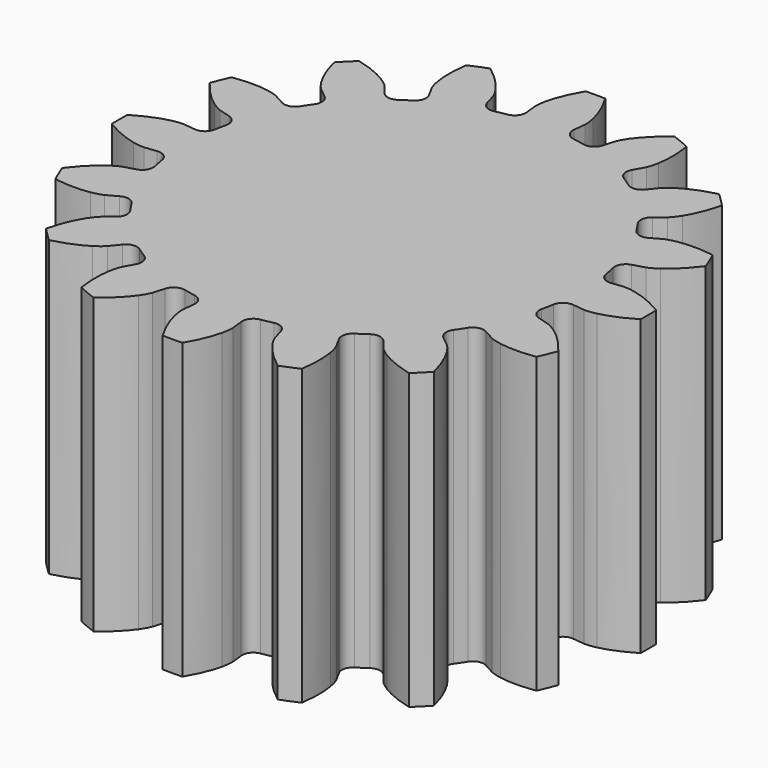
from build123d import *

# Parameters (mm, degrees)
PAD_DEPTH = 15


with BuildPart() as part:
    # InvoluteGear → Pad (new body)
    with BuildSketch(Plane.XY):
        with BuildLine():
            Line((10.626695, -1.206806), (11.229569, -1.274112))
            add(Edge.make_bspline(
                [(11.229569, -1.274112), (11.295854, -1.277192), (11.495172, -1.277709), (11.828545, -1.203766)],
                knots=[0, 0, 0, 0, 1, 1, 1, 1], degree=3))
            add(Edge.make_bspline(
                [(11.828545, -1.203766), (12.226607, -1.113799), (12.797122, -0.918468), (13.492577, -0.498449)],
                knots=[0, 0, 0, 0, 1, 1, 1, 1], degree=3))
            ThreePointArc((13.492577, -0.498449), (13.500891, 0.000373), (13.490769, 0.499162))
            add(Edge.make_bspline(
                [(13.490769, 0.499162), (12.797122, 0.918468), (12.226607, 1.113799), (11.828545, 1.203766)],
                knots=[0, 0, 0, 0, 1, 1, 1, 1], degree=3))
            add(Edge.make_bspline(
                [(11.828545, 1.203766), (11.495172, 1.277709), (11.295854, 1.277192), (11.229569, 1.274112)],
                knots=[0, 0, 0, 0, 1, 1, 1, 1], degree=3))
            Line((11.229569, 1.274112), (10.626695, 1.206806))
            ThreePointArc((10.626695, 1.206806), (10.210649, 1.311293), (9.985274, 1.676284))
            ThreePointArc((9.985274, 1.676284), (9.930451, 1.97529), (9.866676, 2.272515))
            ThreePointArc((9.866676, 2.272515), (9.935219, 2.695969), (10.279611, 2.951717))
            Line((10.279611, 2.951717), (10.86235, 3.120244))
            add(Edge.make_bspline(
                [(10.86235, 3.120244), (10.924769, 3.142764), (11.109112, 3.218563), (11.388812, 3.414453)],
                knots=[0, 0, 0, 0, 1, 1, 1, 1], degree=3))
            add(Edge.make_bspline(
                [(11.388812, 3.414453), (11.722144, 3.649904), (12.174482, 4.048693), (12.656264, 4.702878)],
                knots=[0, 0, 0, 0, 1, 1, 1, 1], degree=3))
            ThreePointArc((12.656264, 4.702878), (12.473054, 5.166912), (12.272824, 5.623859))
            add(Edge.make_bspline(
                [(12.272824, 5.623859), (11.471517, 5.7458), (10.86968, 5.707936), (10.467489, 5.638723)],
                knots=[0, 0, 0, 0, 1, 1, 1, 1], degree=3))
            add(Edge.make_bspline(
                [(10.467489, 5.638723), (10.131196, 5.579461), (9.947248, 5.502708), (9.887187, 5.474496)],
                knots=[0, 0, 0, 0, 1, 1, 1, 1], degree=3))
            Line((9.887187, 5.474496), (9.355961, 5.181603))
            ThreePointArc((9.355961, 5.181603), (8.931599, 5.118923), (8.583704, 5.369883))
            ThreePointArc((8.583704, 5.369883), (8.41863, 5.625149), (8.245967, 5.875343))
            ThreePointArc((8.245967, 5.875343), (8.147243, 6.292795), (8.367549, 6.660867))
            Line((8.367549, 6.660867), (8.841437, 7.039571))
            add(Edge.make_bspline(
                [(8.841437, 7.039571), (8.890486, 7.084264), (9.031791, 7.224838), (9.215235, 7.512853)],
                knots=[0, 0, 0, 0, 1, 1, 1, 1], degree=3))
            add(Edge.make_bspline(
                [(9.215235, 7.512853), (9.433091, 7.857942), (9.698387, 8.399477), (9.893149, 9.188235)],
                knots=[0, 0, 0, 0, 1, 1, 1, 1], degree=3))
            ThreePointArc((9.893149, 9.188235), (9.546308, 9.546835), (9.186453, 9.892375))
            add(Edge.make_bspline(
                [(9.186453, 9.892375), (8.399477, 9.698387), (7.857942, 9.433091), (7.512853, 9.215235)],
                knots=[0, 0, 0, 0, 1, 1, 1, 1], degree=3))
            add(Edge.make_bspline(
                [(7.512853, 9.215235), (7.224838, 9.031791), (7.084264, 8.890486), (7.039571, 8.841437)],
                knots=[0, 0, 0, 0, 1, 1, 1, 1], degree=3))
            Line((7.039571, 8.841437), (6.660867, 8.367549))
            ThreePointArc((6.660867, 8.367549), (6.292795, 8.147243), (5.875343, 8.245967))
            ThreePointArc((5.875343, 8.245967), (5.625149, 8.41863), (5.369883, 8.583704))
            ThreePointArc((5.369883, 8.583704), (5.118923, 8.931599), (5.181603, 9.355961))
            Line((5.181603, 9.355961), (5.474496, 9.887187))
            add(Edge.make_bspline(
                [(5.474496, 9.887187), (5.502708, 9.947248), (5.579461, 10.131196), (5.638723, 10.467489)],
                knots=[0, 0, 0, 0, 1, 1, 1, 1], degree=3))
            add(Edge.make_bspline(
                [(5.638723, 10.467489), (5.707936, 10.86968), (5.7458, 11.471517), (5.623893, 12.274767)],
                knots=[0, 0, 0, 0, 1, 1, 1, 1], degree=3))
            ThreePointArc((5.623893, 12.274767), (5.166223, 12.473339), (4.701528, 12.654866))
            add(Edge.make_bspline(
                [(4.701528, 12.654866), (4.048693, 12.174482), (3.649904, 11.722144), (3.414453, 11.388812)],
                knots=[0, 0, 0, 0, 1, 1, 1, 1], degree=3))
            add(Edge.make_bspline(
                [(3.414453, 11.388812), (3.218563, 11.109112), (3.142764, 10.924769), (3.120244, 10.86235)],
                knots=[0, 0, 0, 0, 1, 1, 1, 1], degree=3))
            Line((3.120244, 10.86235), (2.951717, 10.279611))
            ThreePointArc((2.951717, 10.279611), (2.695969, 9.935219), (2.272515, 9.866676))
            ThreePointArc((2.272515, 9.866676), (1.97529, 9.930451), (1.676284, 9.985274))
            ThreePointArc((1.676284, 9.985274), (1.311293, 10.210649), (1.206806, 10.626695))
            Line((1.206806, 10.626695), (1.274112, 11.229569))
            add(Edge.make_bspline(
                [(1.274112, 11.229569), (1.277192, 11.295854), (1.277709, 11.495172), (1.203766, 11.828545)],
                knots=[0, 0, 0, 0, 1, 1, 1, 1], degree=3))
            add(Edge.make_bspline(
                [(1.203766, 11.828545), (1.113799, 12.226607), (0.918468, 12.797122), (0.498449, 13.492577)],
                knots=[0, 0, 0, 0, 1, 1, 1, 1], degree=3))
            ThreePointArc((0.498449, 13.492577), (-0.000373, 13.500891), (-0.499162, 13.490769))
            add(Edge.make_bspline(
                [(-0.499162, 13.490769), (-0.918468, 12.797122), (-1.113799, 12.226607), (-1.203766, 11.828545)],
                knots=[0, 0, 0, 0, 1, 1, 1, 1], degree=3))
            add(Edge.make_bspline(
                [(-1.203766, 11.828545), (-1.277709, 11.495172), (-1.277192, 11.295854), (-1.274112, 11.229569)],
                knots=[0, 0, 0, 0, 1, 1, 1, 1], degree=3))
            Line((-1.274112, 11.229569), (-1.206806, 10.626695))
            ThreePointArc((-1.206806, 10.626695), (-1.311293, 10.210649), (-1.676284, 9.985274))
            ThreePointArc((-1.676284, 9.985274), (-1.97529, 9.930451), (-2.272515, 9.866676))
            ThreePointArc((-2.272515, 9.866676), (-2.695969, 9.935219), (-2.951717, 10.279611))
            Line((-2.951717, 10.279611), (-3.120244, 10.86235))
            add(Edge.make_bspline(
                [(-3.120244, 10.86235), (-3.142764, 10.924769), (-3.218563, 11.109112), (-3.414453, 11.388812)],
                knots=[0, 0, 0, 0, 1, 1, 1, 1], degree=3))
            add(Edge.make_bspline(
                [(-3.414453, 11.388812), (-3.649904, 11.722144), (-4.048693, 12.174482), (-4.702878, 12.656264)],
                knots=[0, 0, 0, 0, 1, 1, 1, 1], degree=3))
            ThreePointArc((-4.702878, 12.656264), (-5.166912, 12.473054), (-5.623859, 12.272824))
            add(Edge.make_bspline(
                [(-5.623859, 12.272824), (-5.7458, 11.471517), (-5.707936, 10.86968), (-5.638723, 10.467489)],
                knots=[0, 0, 0, 0, 1, 1, 1, 1], degree=3))
            add(Edge.make_bspline(
                [(-5.638723, 10.467489), (-5.579461, 10.131196), (-5.502708, 9.947248), (-5.474496, 9.887187)],
                knots=[0, 0, 0, 0, 1, 1, 1, 1], degree=3))
            Line((-5.474496, 9.887187), (-5.181603, 9.355961))
            ThreePointArc((-5.181603, 9.355961), (-5.118923, 8.931599), (-5.369883, 8.583704))
            ThreePointArc((-5.369883, 8.583704), (-5.625149, 8.41863), (-5.875343, 8.245967))
            ThreePointArc((-5.875343, 8.245967), (-6.292795, 8.147243), (-6.660867, 8.367549))
            Line((-6.660867, 8.367549), (-7.039571, 8.841437))
            add(Edge.make_bspline(
                [(-7.039571, 8.841437), (-7.084264, 8.890486), (-7.224838, 9.031791), (-7.512853, 9.215235)],
                knots=[0, 0, 0, 0, 1, 1, 1, 1], degree=3))
            add(Edge.make_bspline(
                [(-7.512853, 9.215235), (-7.857942, 9.433091), (-8.399477, 9.698387), (-9.188235, 9.893149)],
                knots=[0, 0, 0, 0, 1, 1, 1, 1], degree=3))
            ThreePointArc((-9.188235, 9.893149), (-9.546835, 9.546308), (-9.892375, 9.186453))
            add(Edge.make_bspline(
                [(-9.892375, 9.186453), (-9.698387, 8.399477), (-9.433091, 7.857942), (-9.215235, 7.512853)],
                knots=[0, 0, 0, 0, 1, 1, 1, 1], degree=3))
            add(Edge.make_bspline(
                [(-9.215235, 7.512853), (-9.031791, 7.224838), (-8.890486, 7.084264), (-8.841437, 7.039571)],
                knots=[0, 0, 0, 0, 1, 1, 1, 1], degree=3))
            Line((-8.841437, 7.039571), (-8.367549, 6.660867))
            ThreePointArc((-8.367549, 6.660867), (-8.147243, 6.292795), (-8.245967, 5.875343))
            ThreePointArc((-8.245967, 5.875343), (-8.41863, 5.625149), (-8.583704, 5.369883))
            ThreePointArc((-8.583704, 5.369883), (-8.931599, 5.118923), (-9.355961, 5.181603))
            Line((-9.355961, 5.181603), (-9.887187, 5.474496))
            add(Edge.make_bspline(
                [(-9.887187, 5.474496), (-9.947248, 5.502708), (-10.131196, 5.579461), (-10.467489, 5.638723)],
                knots=[0, 0, 0, 0, 1, 1, 1, 1], degree=3))
            add(Edge.make_bspline(
                [(-10.467489, 5.638723), (-10.86968, 5.707936), (-11.471517, 5.7458), (-12.274767, 5.623893)],
                knots=[0, 0, 0, 0, 1, 1, 1, 1], degree=3))
            ThreePointArc((-12.274767, 5.623893), (-12.473339, 5.166223), (-12.654866, 4.701528))
            add(Edge.make_bspline(
                [(-12.654866, 4.701528), (-12.174482, 4.048693), (-11.722144, 3.649904), (-11.388812, 3.414453)],
                knots=[0, 0, 0, 0, 1, 1, 1, 1], degree=3))
            add(Edge.make_bspline(
                [(-11.388812, 3.414453), (-11.109112, 3.218563), (-10.924769, 3.142764), (-10.86235, 3.120244)],
                knots=[0, 0, 0, 0, 1, 1, 1, 1], degree=3))
            Line((-10.86235, 3.120244), (-10.279611, 2.951717))
            ThreePointArc((-10.279611, 2.951717), (-9.935219, 2.695969), (-9.866676, 2.272515))
            ThreePointArc((-9.866676, 2.272515), (-9.930451, 1.97529), (-9.985274, 1.676284))
            ThreePointArc((-9.985274, 1.676284), (-10.210649, 1.311293), (-10.626695, 1.206806))
            Line((-10.626695, 1.206806), (-11.229569, 1.274112))
            add(Edge.make_bspline(
                [(-11.229569, 1.274112), (-11.295854, 1.277192), (-11.495172, 1.277709), (-11.828545, 1.203766)],
                knots=[0, 0, 0, 0, 1, 1, 1, 1], degree=3))
            add(Edge.make_bspline(
                [(-11.828545, 1.203766), (-12.226607, 1.113799), (-12.797122, 0.918468), (-13.492577, 0.498449)],
                knots=[0, 0, 0, 0, 1, 1, 1, 1], degree=3))
            ThreePointArc((-13.492577, 0.498449), (-13.500891, -0.000373), (-13.490769, -0.499162))
            add(Edge.make_bspline(
                [(-13.490769, -0.499162), (-12.797122, -0.918468), (-12.226607, -1.113799), (-11.828545, -1.203766)],
                knots=[0, 0, 0, 0, 1, 1, 1, 1], degree=3))
            add(Edge.make_bspline(
                [(-11.828545, -1.203766), (-11.495172, -1.277709), (-11.295854, -1.277192), (-11.229569, -1.274112)],
                knots=[0, 0, 0, 0, 1, 1, 1, 1], degree=3))
            Line((-11.229569, -1.274112), (-10.626695, -1.206806))
            ThreePointArc((-10.626695, -1.206806), (-10.210649, -1.311293), (-9.985274, -1.676284))
            ThreePointArc((-9.985274, -1.676284), (-9.930451, -1.97529), (-9.866676, -2.272515))
            ThreePointArc((-9.866676, -2.272515), (-9.935219, -2.695969), (-10.279611, -2.951717))
            Line((-10.279611, -2.951717), (-10.86235, -3.120244))
            add(Edge.make_bspline(
                [(-10.86235, -3.120244), (-10.924769, -3.142764), (-11.109112, -3.218563), (-11.388812, -3.414453)],
                knots=[0, 0, 0, 0, 1, 1, 1, 1], degree=3))
            add(Edge.make_bspline(
                [(-11.388812, -3.414453), (-11.722144, -3.649904), (-12.174482, -4.048693), (-12.656264, -4.702878)],
                knots=[0, 0, 0, 0, 1, 1, 1, 1], degree=3))
            ThreePointArc((-12.656264, -4.702878), (-12.473054, -5.166912), (-12.272824, -5.623859))
            add(Edge.make_bspline(
                [(-12.272824, -5.623859), (-11.471517, -5.7458), (-10.86968, -5.707936), (-10.467489, -5.638723)],
                knots=[0, 0, 0, 0, 1, 1, 1, 1], degree=3))
            add(Edge.make_bspline(
                [(-10.467489, -5.638723), (-10.131196, -5.579461), (-9.947248, -5.502708), (-9.887187, -5.474496)],
                knots=[0, 0, 0, 0, 1, 1, 1, 1], degree=3))
            Line((-9.887187, -5.474496), (-9.355961, -5.181603))
            ThreePointArc((-9.355961, -5.181603), (-8.931599, -5.118923), (-8.583704, -5.369883))
            ThreePointArc((-8.583704, -5.369883), (-8.41863, -5.625149), (-8.245967, -5.875343))
            ThreePointArc((-8.245967, -5.875343), (-8.147243, -6.292795), (-8.367549, -6.660867))
            Line((-8.367549, -6.660867), (-8.841437, -7.039571))
            add(Edge.make_bspline(
                [(-8.841437, -7.039571), (-8.890486, -7.084264), (-9.031791, -7.224838), (-9.215235, -7.512853)],
                knots=[0, 0, 0, 0, 1, 1, 1, 1], degree=3))
            add(Edge.make_bspline(
                [(-9.215235, -7.512853), (-9.433091, -7.857942), (-9.698387, -8.399477), (-9.893149, -9.188235)],
                knots=[0, 0, 0, 0, 1, 1, 1, 1], degree=3))
            ThreePointArc((-9.893149, -9.188235), (-9.546308, -9.546835), (-9.186453, -9.892375))
            add(Edge.make_bspline(
                [(-9.186453, -9.892375), (-8.399477, -9.698387), (-7.857942, -9.433091), (-7.512853, -9.215235)],
                knots=[0, 0, 0, 0, 1, 1, 1, 1], degree=3))
            add(Edge.make_bspline(
                [(-7.512853, -9.215235), (-7.224838, -9.031791), (-7.084264, -8.890486), (-7.039571, -8.841437)],
                knots=[0, 0, 0, 0, 1, 1, 1, 1], degree=3))
            Line((-7.039571, -8.841437), (-6.660867, -8.367549))
            ThreePointArc((-6.660867, -8.367549), (-6.292795, -8.147243), (-5.875343, -8.245967))
            ThreePointArc((-5.875343, -8.245967), (-5.625149, -8.41863), (-5.369883, -8.583704))
            ThreePointArc((-5.369883, -8.583704), (-5.118923, -8.931599), (-5.181603, -9.355961))
            Line((-5.181603, -9.355961), (-5.474496, -9.887187))
            add(Edge.make_bspline(
                [(-5.474496, -9.887187), (-5.502708, -9.947248), (-5.579461, -10.131196), (-5.638723, -10.467489)],
                knots=[0, 0, 0, 0, 1, 1, 1, 1], degree=3))
            add(Edge.make_bspline(
                [(-5.638723, -10.467489), (-5.707936, -10.86968), (-5.7458, -11.471517), (-5.623893, -12.274767)],
                knots=[0, 0, 0, 0, 1, 1, 1, 1], degree=3))
            ThreePointArc((-5.623893, -12.274767), (-5.166223, -12.473339), (-4.701528, -12.654866))
            add(Edge.make_bspline(
                [(-4.701528, -12.654866), (-4.048693, -12.174482), (-3.649904, -11.722144), (-3.414453, -11.388812)],
                knots=[0, 0, 0, 0, 1, 1, 1, 1], degree=3))
            add(Edge.make_bspline(
                [(-3.414453, -11.388812), (-3.218563, -11.109112), (-3.142764, -10.924769), (-3.120244, -10.86235)],
                knots=[0, 0, 0, 0, 1, 1, 1, 1], degree=3))
            Line((-3.120244, -10.86235), (-2.951717, -10.279611))
            ThreePointArc((-2.951717, -10.279611), (-2.695969, -9.935219), (-2.272515, -9.866676))
            ThreePointArc((-2.272515, -9.866676), (-1.97529, -9.930451), (-1.676284, -9.985274))
            ThreePointArc((-1.676284, -9.985274), (-1.311293, -10.210649), (-1.206806, -10.626695))
            Line((-1.206806, -10.626695), (-1.274112, -11.229569))
            add(Edge.make_bspline(
                [(-1.274112, -11.229569), (-1.277192, -11.295854), (-1.277709, -11.495172), (-1.203766, -11.828545)],
                knots=[0, 0, 0, 0, 1, 1, 1, 1], degree=3))
            add(Edge.make_bspline(
                [(-1.203766, -11.828545), (-1.113799, -12.226607), (-0.918468, -12.797122), (-0.498449, -13.492577)],
                knots=[0, 0, 0, 0, 1, 1, 1, 1], degree=3))
            ThreePointArc((-0.498449, -13.492577), (0.000373, -13.500891), (0.499162, -13.490769))
            add(Edge.make_bspline(
                [(0.499162, -13.490769), (0.918468, -12.797122), (1.113799, -12.226607), (1.203766, -11.828545)],
                knots=[0, 0, 0, 0, 1, 1, 1, 1], degree=3))
            add(Edge.make_bspline(
                [(1.203766, -11.828545), (1.277709, -11.495172), (1.277192, -11.295854), (1.274112, -11.229569)],
                knots=[0, 0, 0, 0, 1, 1, 1, 1], degree=3))
            Line((1.274112, -11.229569), (1.206806, -10.626695))
            ThreePointArc((1.206806, -10.626695), (1.311293, -10.210649), (1.676284, -9.985274))
            ThreePointArc((1.676284, -9.985274), (1.97529, -9.930451), (2.272515, -9.866676))
            ThreePointArc((2.272515, -9.866676), (2.695969, -9.935219), (2.951717, -10.279611))
            Line((2.951717, -10.279611), (3.120244, -10.86235))
            add(Edge.make_bspline(
                [(3.120244, -10.86235), (3.142764, -10.924769), (3.218563, -11.109112), (3.414453, -11.388812)],
                knots=[0, 0, 0, 0, 1, 1, 1, 1], degree=3))
            add(Edge.make_bspline(
                [(3.414453, -11.388812), (3.649904, -11.722144), (4.048693, -12.174482), (4.702878, -12.656264)],
                knots=[0, 0, 0, 0, 1, 1, 1, 1], degree=3))
            ThreePointArc((4.702878, -12.656264), (5.166912, -12.473054), (5.623859, -12.272824))
            add(Edge.make_bspline(
                [(5.623859, -12.272824), (5.7458, -11.471517), (5.707936, -10.86968), (5.638723, -10.467489)],
                knots=[0, 0, 0, 0, 1, 1, 1, 1], degree=3))
            add(Edge.make_bspline(
                [(5.638723, -10.467489), (5.579461, -10.131196), (5.502708, -9.947248), (5.474496, -9.887187)],
                knots=[0, 0, 0, 0, 1, 1, 1, 1], degree=3))
            Line((5.474496, -9.887187), (5.181603, -9.355961))
            ThreePointArc((5.181603, -9.355961), (5.118923, -8.931599), (5.369883, -8.583704))
            ThreePointArc((5.369883, -8.583704), (5.625149, -8.41863), (5.875343, -8.245967))
            ThreePointArc((5.875343, -8.245967), (6.292795, -8.147243), (6.660867, -8.367549))
            Line((6.660867, -8.367549), (7.039571, -8.841437))
            add(Edge.make_bspline(
                [(7.039571, -8.841437), (7.084264, -8.890486), (7.224838, -9.031791), (7.512853, -9.215235)],
                knots=[0, 0, 0, 0, 1, 1, 1, 1], degree=3))
            add(Edge.make_bspline(
                [(7.512853, -9.215235), (7.857942, -9.433091), (8.399477, -9.698387), (9.188235, -9.893149)],
                knots=[0, 0, 0, 0, 1, 1, 1, 1], degree=3))
            ThreePointArc((9.188235, -9.893149), (9.546835, -9.546308), (9.892375, -9.186453))
            add(Edge.make_bspline(
                [(9.892375, -9.186453), (9.698387, -8.399477), (9.433091, -7.857942), (9.215235, -7.512853)],
                knots=[0, 0, 0, 0, 1, 1, 1, 1], degree=3))
            add(Edge.make_bspline(
                [(9.215235, -7.512853), (9.031791, -7.224838), (8.890486, -7.084264), (8.841437, -7.039571)],
                knots=[0, 0, 0, 0, 1, 1, 1, 1], degree=3))
            Line((8.841437, -7.039571), (8.367549, -6.660867))
            ThreePointArc((8.367549, -6.660867), (8.147243, -6.292795), (8.245967, -5.875343))
            ThreePointArc((8.245967, -5.875343), (8.41863, -5.625149), (8.583704, -5.369883))
            ThreePointArc((8.583704, -5.369883), (8.931599, -5.118923), (9.355961, -5.181603))
            Line((9.355961, -5.181603), (9.887187, -5.474496))
            add(Edge.make_bspline(
                [(9.887187, -5.474496), (9.947248, -5.502708), (10.131196, -5.579461), (10.467489, -5.638723)],
                knots=[0, 0, 0, 0, 1, 1, 1, 1], degree=3))
            add(Edge.make_bspline(
                [(10.467489, -5.638723), (10.86968, -5.707936), (11.471517, -5.7458), (12.274767, -5.623893)],
                knots=[0, 0, 0, 0, 1, 1, 1, 1], degree=3))
            ThreePointArc((12.274767, -5.623893), (12.473339, -5.166223), (12.654866, -4.701528))
            add(Edge.make_bspline(
                [(12.654866, -4.701528), (12.174482, -4.048693), (11.722144, -3.649904), (11.388812, -3.414453)],
                knots=[0, 0, 0, 0, 1, 1, 1, 1], degree=3))
            add(Edge.make_bspline(
                [(11.388812, -3.414453), (11.109112, -3.218563), (10.924769, -3.142764), (10.86235, -3.120244)],
                knots=[0, 0, 0, 0, 1, 1, 1, 1], degree=3))
            Line((10.86235, -3.120244), (10.279611, -2.951717))
            ThreePointArc((10.279611, -2.951717), (9.935219, -2.695969), (9.866676, -2.272515))
            ThreePointArc((9.866676, -2.272515), (9.930451, -1.97529), (9.985274, -1.676284))
            ThreePointArc((9.985274, -1.676284), (10.210649, -1.311293), (10.626695, -1.206806))
        make_face()
    extrude(amount=PAD_DEPTH)


solid = part.part
